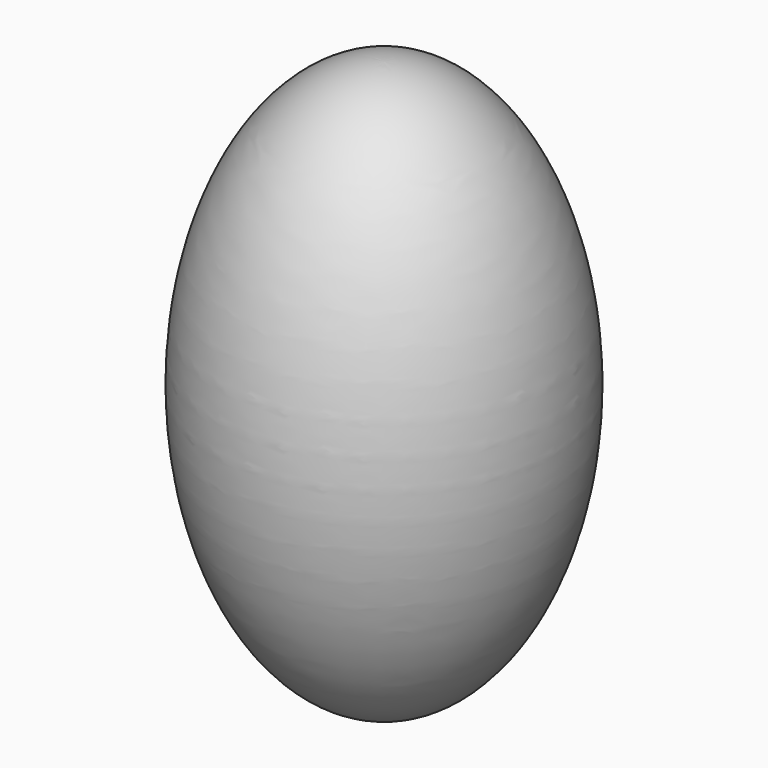
from build123d import *


with BuildPart() as f1:
    # F0 (on Front) → F1 (revolve)
    with BuildSketch(Plane.XZ):
        with BuildLine():
            Line((0, -42.278562), (0, 42.278562))
            add(Edge.make_bspline(
                [(0, 42.278562), (-25.389815, 42.278562), (-25.389815, 0), (-25.389815, -42.278562), (0, -42.278562)],
                knots=[0, 0, 0, 1.570796, 1.570796, 3.141593, 3.141593, 3.141593], degree=2, weights=[1, 0.707107, 1, 0.707107, 1]))
        make_face()
    revolve(axis=Axis((0, 0, 0), (0, 0, -1)))


solid = f1.part
